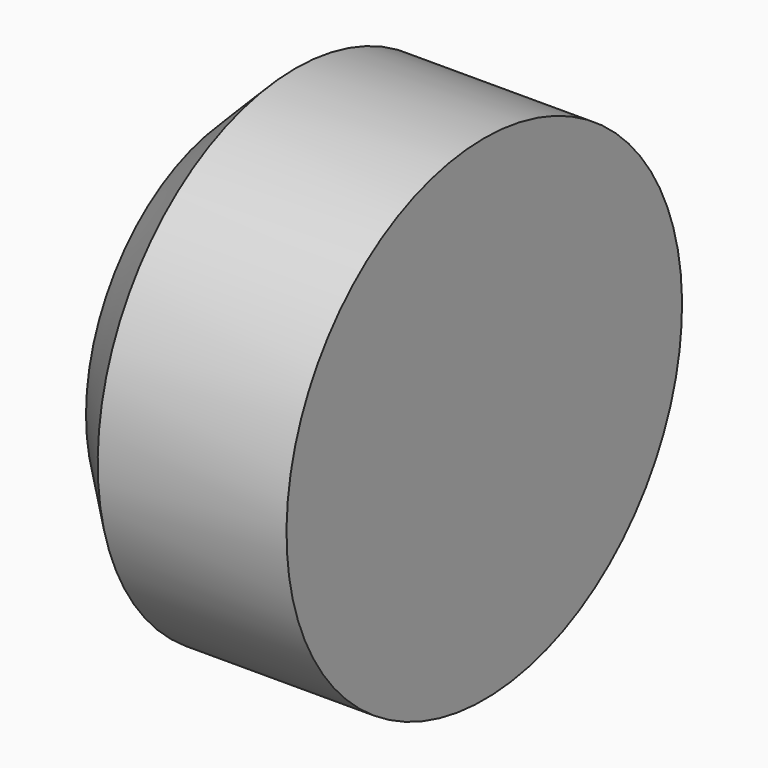
from build123d import *

# Parameters (mm, degrees)
F0_W    = 12.7
F0_H    = 12.7
F2_SIZE = 3


with BuildPart() as f1:
    # F0 (on Front) → F1 (revolve)
    with BuildSketch(Plane.XZ):
        with Locations((6.35, 6.35)):
            Rectangle(F0_W, F0_H)
    revolve(axis=Axis((6.35, 0, 0), (-1, 0, 0)))

    # F2
    f2_edges = [f1.edges().sort_by_distance(p)[0] for p in [
        (0, 0, -12.7),
    ]]
    chamfer(f2_edges, length=F2_SIZE)


solid = f1.part
